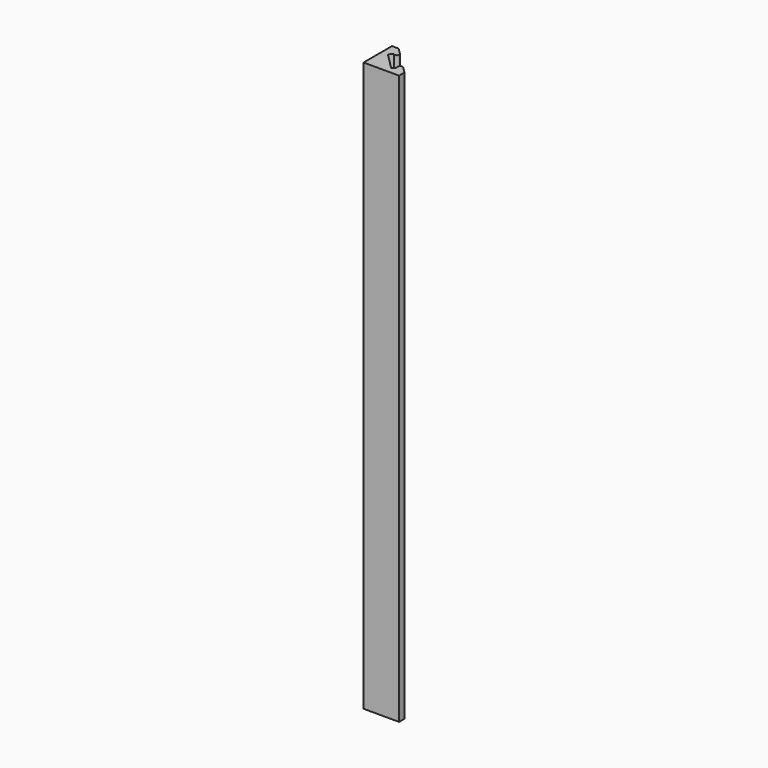
from build123d import *

# Parameters (mm, degrees)
F1_DEPTH = 240


with BuildPart() as f1:
    # F0 (on Top) → F1 (new body)
    with BuildSketch(Plane.XY):
        with BuildLine():
            ThreePointArc((4.9159969599, -2.133058554), (3.5017833975, -2.133058554), (3.5017833975, -3.5472721164))
            Line((3.5017833975, -3.5472721164), (4.9159969599, -2.133058554))
        make_face()
        with BuildLine():
            Line((3.5017833975, -3.5472721164), (7.5369601697, -7.5824488886))
            Line((7.5369601697, -7.5824488886), (7.5369601697, -4.7540217638))
            Line((7.5369601697, -4.7540217638), (4.9159969599, -2.133058554))
            ThreePointArc((4.9159969599, -2.133058554), (5.1327697112, -2.4574819028), (5.2088901787, -2.8401653352))
            ThreePointArc((5.2088901787, -2.8401653352), (4.591573611, -3.7640448677), (3.5017833975, -3.5472721164))
        make_face()
        with BuildLine():
            Line((4.9159969599, -2.133058554), (3.5017833975, -3.5472721164))
            ThreePointArc((3.5017833975, -3.5472721164), (4.591573611, -3.7640448677), (5.2088901787, -2.8401653352))
            ThreePointArc((5.2088901787, -2.8401653352), (5.1327697112, -2.4574819028), (4.9159969599, -2.133058554))
        make_face()
        Polygon((2.0875698351, -4.9614856788), (4.7085330449, -7.5824488886), (7.5369601697, -7.5824488886), (3.5017833975, -3.5472721164), align=None)
        Polygon((2.0875698351, -4.9614856788), (-0.5333933747, -7.5824488886), (4.7085330449, -7.5824488886), align=None)
        Polygon((-1.3772533927, -1.4966624509), (-7.4630398303, -7.5824488886), (-0.5333933747, -7.5824488886), (2.0875698351, -4.9614856788), align=None)
        with BuildLine():
            Line((-2.0136494958, 4.7965879016), (-3.4278630581, 3.3823743392))
            ThreePointArc((-3.4278630581, 3.3823743392), (-2.3380728446, 3.1656015879), (-1.720756277, 4.0894811204))
            ThreePointArc((-1.720756277, 4.0894811204), (-1.7968767444, 4.4721645528), (-2.0136494958, 4.7965879016))
        make_face()
        with BuildLine():
            ThreePointArc((-2.0136494958, 4.7965879016), (-3.4278630581, 4.7965879016), (-3.4278630581, 3.3823743392))
            Line((-3.4278630581, 3.3823743392), (-2.0136494958, 4.7965879016))
        make_face()
        Polygon((-7.4630398303, 7.4175511114), (-7.4630398303, 4.5891239867), (-4.8420766205, 1.9681607769), (-3.4278630581, 3.3823743392), align=None)
        Polygon((-7.4630398303, 4.5891239867), (-7.4630398303, -0.6528024329), (-4.8420766205, 1.9681607769), align=None)
        Polygon((-7.4630398303, -0.6528024329), (-7.4630398303, -7.5824488886), (-1.3772533927, -1.4966624509), (-4.8420766205, 1.9681607769), align=None)
        with BuildLine():
            Line((-4.6346127056, 7.4175511114), (-7.4630398303, 7.4175511114))
            Line((-7.4630398303, 7.4175511114), (-3.4278630581, 3.3823743392))
            ThreePointArc((-3.4278630581, 3.3823743392), (-3.4278630581, 4.7965879016), (-2.0136494958, 4.7965879016))
            Line((-2.0136494958, 4.7965879016), (-4.6346127056, 7.4175511114))
        make_face()
    extrude(amount=F1_DEPTH)


solid = f1.part
